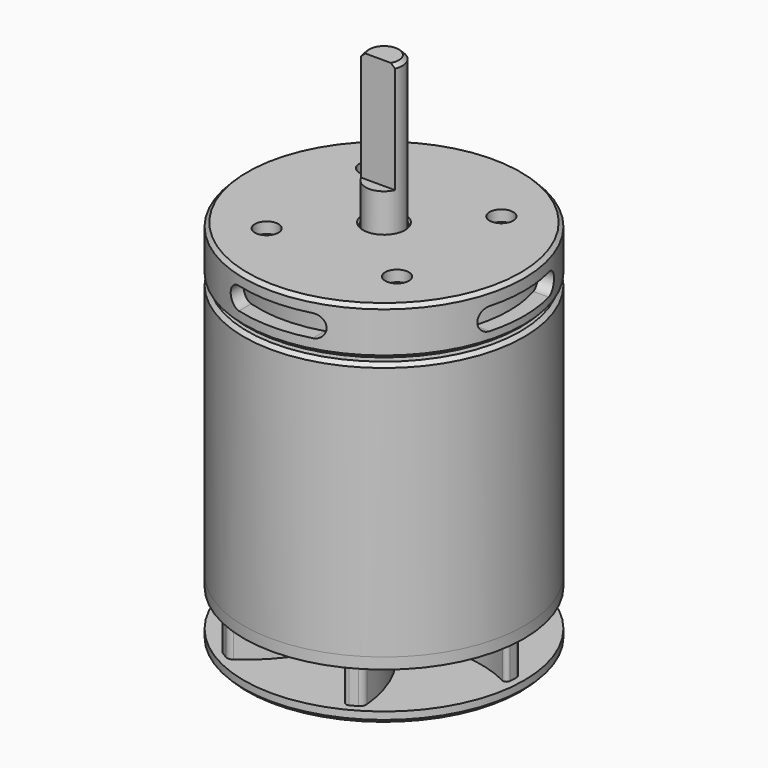
from build123d import *

# Parameters (mm, degrees)
F0_R       = 19
F1_DEPTH   = 1.5
F3_DEPTH   = 5
F4_R       = 19
F5_DEPTH   = 1.5
F6_SIZE    = 0.5
F7_R       = 19
F7_R_2     = 17
F8_DEPTH   = 35
F10_R      = 19
F11_DEPTH  = 6.5
F12_SIZE   = 0.5
F12_2_SIZE = 0.5
F14_DEPTH  = 37.5
F16_DEPTH  = 37.5
F17_R      = 17
F18_DEPTH  = 5
F19_R      = 2.6
F20_DEPTH  = 45
F21_SIZE   = 0.25
F22_R      = 2.5
F23_DEPTH  = 62
F25_SIZE   = 0.5
F26_DEPTH  = 15
F27_DEPTH  = 15
F28_R      = 1.6
F29_DEPTH  = 4


with BuildPart() as f1:
    # F0 (on Top) → F1 (new body)
    with BuildSketch(Plane.XY):
        Circle(F0_R)
    extrude(amount=F1_DEPTH)

    # F2 (on face) → F3 (join)
    with BuildSketch(Plane.XY.offset(1.5)):
        with BuildLine():
            ThreePointArc((8.0080814524, 15.497668426), (3.4147458762, 10.8673756674), (0.6578947368, 4.9565284742))
            ThreePointArc((0.6578947368, 4.9565284742), (-0.8761939126, 4.9226298081), (-2.3277599171, 4.4251026845))
            ThreePointArc((-2.3277599171, 4.4251026845), (-5.8924308346, 9.5497769911), (-7.3494903452, 15.6198793858))
            ThreePointArc((-7.3494903452, 15.6198793858), (-7.5971847039, 16.0271738837), (-8.0736596003, 16.041767598))
            ThreePointArc((-8.0736596003, 16.041767598), (-8.5216200512, 15.8083610382), (-8.9628390535, 15.5624484935))
            ThreePointArc((-8.9628390535, 15.5624484935), (-9.3189517912, 15.189917895), (-9.4173338302, 14.6840361864))
            ThreePointArc((-9.4173338302, 14.6840361864), (-7.7040504623, 8.39094451), (-3.9635322048, 3.0480177922))
            ThreePointArc((-3.9635322048, 3.0480177922), (-4.7012194235, 1.7025087171), (-4.9961312977, 0.1966521202))
            ThreePointArc((-4.9961312977, 0.1966521202), (-11.2165648921, -0.3281062973), (-17.2019575247, 1.4450943491))
            ThreePointArc((-17.2019575247, 1.4450943491), (-17.6785320861, 1.4342319911), (-17.9294080616, 1.0288894837))
            ThreePointArc((-17.9294080616, 1.0288894837), (-17.9512522769, 0.5242410734), (-17.9588952672, 0.0191779364))
            ThreePointArc((-17.9588952672, 0.0191779364), (-17.814330674, -0.4754900403), (-17.4254152826, -0.8136322397))
            ThreePointArc((-17.4254152826, -0.8136322397), (-11.1187963385, -2.4764311574), (-4.6214269416, -1.908510682))
            ThreePointArc((-4.6214269416, -1.908510682), (-3.8250255109, -3.220121091), (-2.6683713806, -4.2284505643))
            ThreePointArc((-2.6683713806, -4.2284505643), (-5.3241340575, -9.8778832884), (-9.8524671796, -14.1747850367))
            ThreePointArc((-9.8524671796, -14.1747850367), (-10.0813473822, -14.5929418927), (-9.8557484614, -15.0128781144))
            ThreePointArc((-9.8557484614, -15.0128781144), (-9.4296322257, -15.2841199648), (-8.9960562137, -15.5432705571))
            ThreePointArc((-8.9960562137, -15.5432705571), (-8.4953788829, -15.6654079353), (-8.0080814524, -15.497668426))
            ThreePointArc((-8.0080814524, -15.497668426), (-3.4147458762, -10.8673756674), (-0.6578947368, -4.9565284742))
            ThreePointArc((-0.6578947368, -4.9565284742), (0.8761939126, -4.9226298081), (2.3277599171, -4.4251026845))
            ThreePointArc((2.3277599171, -4.4251026845), (5.8924308346, -9.5497769911), (7.3494903452, -15.6198793858))
            ThreePointArc((7.3494903452, -15.6198793858), (7.5971847039, -16.0271738837), (8.0736596003, -16.041767598))
            ThreePointArc((8.0736596003, -16.041767598), (8.5216200512, -15.8083610382), (8.9628390535, -15.5624484935))
            ThreePointArc((8.9628390535, -15.5624484935), (9.3189517912, -15.189917895), (9.4173338302, -14.6840361864))
            ThreePointArc((9.4173338302, -14.6840361864), (7.7040504623, -8.39094451), (3.9635322048, -3.0480177922))
            ThreePointArc((3.9635322048, -3.0480177922), (4.7012194235, -1.7025087171), (4.9961312977, -0.1966521202))
            ThreePointArc((4.9961312977, -0.1966521202), (11.2165648921, 0.3281062973), (17.2019575247, -1.4450943491))
            ThreePointArc((17.2019575247, -1.4450943491), (17.6785320861, -1.4342319911), (17.9294080616, -1.0288894837))
            ThreePointArc((17.9294080616, -1.0288894837), (17.9512522769, -0.5242410734), (17.9588952672, -0.0191779364))
            ThreePointArc((17.9588952672, -0.0191779364), (17.814330674, 0.4754900403), (17.4254152826, 0.8136322397))
            ThreePointArc((17.4254152826, 0.8136322397), (11.1187963385, 2.4764311574), (4.6214269416, 1.908510682))
            ThreePointArc((4.6214269416, 1.908510682), (3.8250255109, 3.220121091), (2.6683713806, 4.2284505643))
            ThreePointArc((2.6683713806, 4.2284505643), (5.3241340575, 9.8778832884), (9.8524671796, 14.1747850367))
            ThreePointArc((9.8524671796, 14.1747850367), (10.0813473822, 14.5929418927), (9.8557484614, 15.0128781144))
            ThreePointArc((9.8557484614, 15.0128781144), (9.4296322257, 15.2841199648), (8.9960562137, 15.5432705571))
            ThreePointArc((8.9960562137, 15.5432705571), (8.4953788829, 15.6654079353), (8.0080814524, 15.497668426))
        make_face()
    extrude(amount=F3_DEPTH)

    # F4 (on face) → F5 (join)
    with BuildSketch(Plane.XY.offset(6.5)):
        Circle(F4_R)
    extrude(amount=F5_DEPTH)

    # F6
    f6_edges = [f1.edges().sort_by_distance(p)[0] for p in [
        (-19, 0, 0),
    ]]
    chamfer(f6_edges, length=F6_SIZE)

    # F24 (on face) → F27 (cut)
    with BuildSketch(Plane.XY.offset(70)):
        with BuildLine():
            Line((2.2913785075, -0.9997922461), (-2.2913785075, -0.9997922461))
            ThreePointArc((-2.2913785075, -0.9997922461), (0, -2.5), (2.2913785075, -0.9997922461))
        make_face()
    extrude(amount=-F27_DEPTH, mode=Mode.SUBTRACT)


with BuildPart() as f8:
    # F7 (on face) → F8 (new body)
    with BuildSketch(Plane.XY.offset(8)):
        Circle(F7_R)
        Circle(F7_R_2, mode=Mode.SUBTRACT)
    extrude(amount=F8_DEPTH)

    # F12
    f12_edges = [f8.edges().sort_by_distance(p)[0] for p in [
        (-19, 0, 43),
    ]]
    chamfer(f12_edges, length=F12_SIZE)


with BuildPart() as f11:
    # F10 (on offset) → F11 (new body)
    with BuildSketch(Plane.XY.offset(43.5)):
        Circle(F10_R)
    extrude(amount=F11_DEPTH)

    # F12#2
    f12_2_edges = [f11.edges().sort_by_distance(p)[0] for p in [
        (-19, 0, 43.5),
        (-19, 0, 50),
    ]]
    chamfer(f12_2_edges, length=F12_2_SIZE)

    # F13 (on Front) → F14 (cut, symmetric)
    with BuildSketch(Plane.XZ):
        with BuildLine():
            ThreePointArc((-5, 48.25), (-6.5, 46.75), (-5, 45.25))
            Line((-5, 45.25), (5, 45.25))
            ThreePointArc((5, 45.25), (6.5, 46.75), (5, 48.25))
            Line((5, 48.25), (-5, 48.25))
        make_face()
    extrude(amount=F14_DEPTH, both=True, mode=Mode.SUBTRACT)

    # F15 (on Right) → F16 (cut, symmetric)
    with BuildSketch(Plane.YZ):
        with BuildLine():
            ThreePointArc((5, 45), (6.5, 46.5), (5, 48))
            Line((5, 48), (-5, 48))
            ThreePointArc((-5, 48), (-6.5, 46.5), (-5, 45))
            Line((-5, 45), (5, 45))
        make_face()
    extrude(amount=F16_DEPTH, both=True, mode=Mode.SUBTRACT)

    # F17 (on face) → F18 (cut)
    with BuildSketch(Plane(origin=(0, 0, 43.5), x_dir=(1, 0, 0), z_dir=(0, 0, -1))):
        Circle(F17_R)
    extrude(amount=-F18_DEPTH, mode=Mode.SUBTRACT)

    # F19 (on face) → F20 (cut)
    with BuildSketch(Plane.XY.offset(8)):
        Circle(F19_R)
    extrude(amount=F20_DEPTH, mode=Mode.SUBTRACT)

    # F21
    f21_edges = [f11.edges().sort_by_distance(p)[0] for p in [
        (-2.6, 0, 50),
    ]]
    chamfer(f21_edges, length=F21_SIZE)

    # F28 (on face) → F29 (cut)
    with BuildSketch(Plane.XY.offset(50)):
        with Locations((-8.8388347648, 8.8388347648)):
            Circle(F28_R)
        with Locations((-8.8388347648, -8.8388347648)):
            Circle(F28_R)
        with Locations((8.8388347648, -8.8388347648)):
            Circle(F28_R)
        with Locations((8.8388347648, 8.8388347648)):
            Circle(F28_R)
    extrude(amount=-F29_DEPTH, mode=Mode.SUBTRACT)


with BuildPart() as f23:
    # F22 (on face) → F23 (new body)
    with BuildSketch(Plane.XY.offset(8)):
        Circle(F22_R)
    extrude(amount=F23_DEPTH)

    # F25
    f25_edges = [f23.edges().sort_by_distance(p)[0] for p in [
        (-2.5, 0, 70),
    ]]
    chamfer(f25_edges, length=F25_SIZE)

    # F24 (on face) → F26 (cut)
    with BuildSketch(Plane.XY.offset(70)):
        with BuildLine():
            Line((2.2913785075, -0.9997922461), (-2.2913785075, -0.9997922461))
            ThreePointArc((-2.2913785075, -0.9997922461), (0, -2.5), (2.2913785075, -0.9997922461))
        make_face()
    extrude(amount=-F26_DEPTH, mode=Mode.SUBTRACT)


solid = Compound([f1.part, f8.part, f11.part, f23.part])
